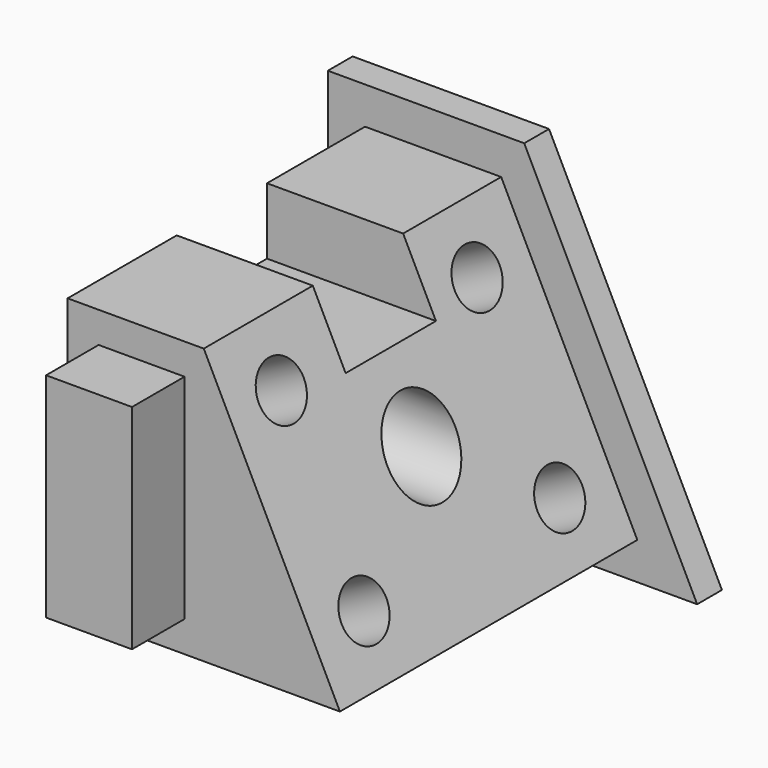
from build123d import *

# Parameters (mm, degrees)
F1_DEPTH  = 38.1
F2_R      = 8.7079162596
F3_DEPTH  = 22.098
F5_DEPTH  = 6.35
F6_R      = 5.7417418986
F7_DEPTH  = 12.954
F8_W      = 23.137550801
F8_H      = 13.5999321938
F9_DEPTH  = 28.448
F10_W     = 17.6125467173
F10_H     = 43.7308948815
F11_DEPTH = 13.462


with BuildPart() as f1:
    # F0 (on Front) → F1 (new body, symmetric)
    with BuildSketch(Plane.XZ):
        Polygon((-26.2284446508, 0), (29.5842699707, 0), (1.6779126599, 56.4308948815), (-26.2284446508, 56.4308948815), align=None)
    extrude(amount=F1_DEPTH, both=True)

    # F2 (on Right) → F3 (cut, symmetric)
    with BuildSketch(Plane.YZ):
        with Locations((0, 27.8683193028)):
            Circle(F2_R)
    extrude(amount=F3_DEPTH, both=True, mode=Mode.SUBTRACT)

    # F4 (on face) → F5 (join)
    with BuildSketch(Plane(origin=(0, 38.1, 0), x_dir=(-1, 0, 0), z_dir=(0, 1, 0))):
        Polygon((33.8484448314, 64.0508950621), (-6.4104854842, 64.0508950621), (-41.8533686003, -7.6200001806), (33.8484448314, -7.6200001806), align=None)
    extrude(amount=F5_DEPTH)

    # F6 (on face) → F7 (cut)
    with BuildSketch(Plane(origin=(23.7710066009, 0, 11.7553018649), x_dir=(0, 1, 0), z_dir=(0.8963824764, 0, 0.4432814636))):
        with Locations((-25.0819269568, 37.4737083912)):
            Circle(F6_R)
        with Locations((25.0819269568, 37.4737083912)):
            Circle(F6_R)
        with Locations((-25.0819269568, -0.7479891615)):
            Circle(F6_R)
        with Locations((25.0819269568, -0.7479891615)):
            Circle(F6_R)
    extrude(amount=-F7_DEPTH, mode=Mode.SUBTRACT)

    # F8 (on Right) → F9 (cut, symmetric)
    with BuildSketch(Plane.YZ):
        with Locations((1.4129802585, 49.6309287846)):
            Rectangle(F8_W, F8_H)
    extrude(amount=F9_DEPTH, both=True, mode=Mode.SUBTRACT)

    # F10 (on face) → F11 (join)
    with BuildSketch(Plane.XZ.offset(38.1)):
        with Locations((-11.0721712921, 28.2154474407)):
            Rectangle(F10_W, F10_H)
    extrude(amount=F11_DEPTH)


solid = f1.part
